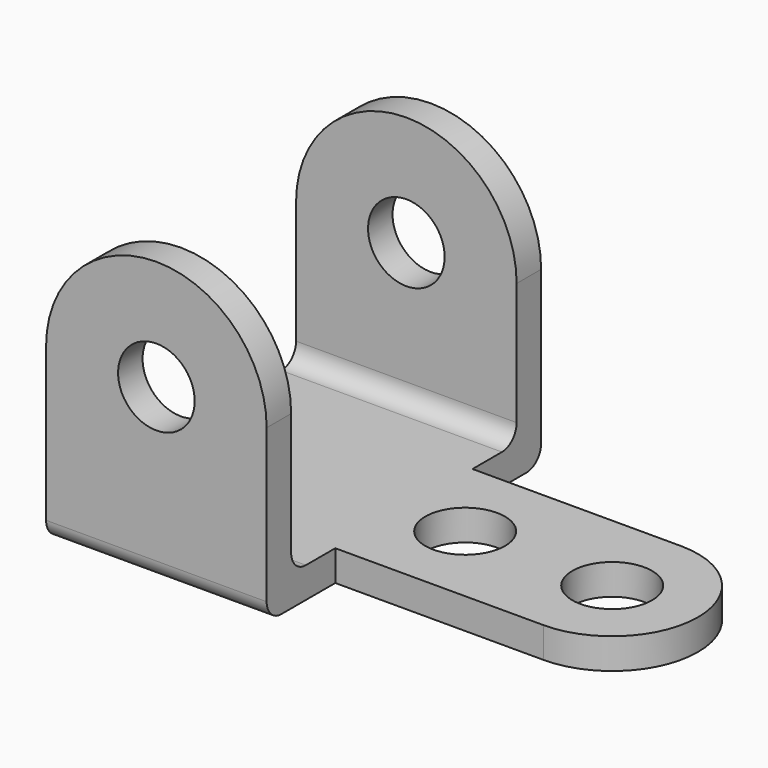
from build123d import *

# Parameters (mm, degrees)
F0_R     = 9.92251
F1_DEPTH = 7.9375
F2_W     = 57.15
F2_H     = 36.5125
F3_DEPTH = 7.9375
F5_R     = 10.3251
F6_DEPTH = 7.9375
F7_R     = 4.7625


with BuildPart() as f1:
    # F0 (on Front) → F1 (new body)
    with BuildSketch(Plane.XZ):
        with BuildLine():
            Line((0, 44.45), (0, 0))
            Line((0, 0), (57.15, 0))
            Line((57.15, 0), (57.15, 44.45))
            ThreePointArc((57.15, 44.45), (28.575, 73.025), (0, 44.45))
        make_face()
        with Locations((28.575, 44.45)):
            Circle(F0_R, mode=Mode.SUBTRACT)
    extrude(amount=F1_DEPTH)

    # F2 (on Top) → F3 (join)
    with BuildSketch(Plane.XY):
        with Locations((28.575, 18.25625)):
            Rectangle(F2_W, F2_H)
    extrude(amount=F3_DEPTH)

    # F4: F1 across face


with BuildPart() as f1_1:
    add(f1.part)
    add(f1.part.mirror(Plane(origin=(28.575, 36.5125, 3.96875), x_dir=(-1, 0, 0), z_dir=(0, 1, 0))))

    # F5 (on Top) → F6 (join)
    with BuildSketch(Plane.XY):
        with BuildLine():
            Line((57.15, 58.7375), (57.15, 14.2875))
            Line((57.15, 14.2875), (111.125, 14.2875))
            ThreePointArc((111.125, 14.2875), (133.35, 36.5125), (111.125, 58.7375))
            Line((111.125, 58.7375), (57.15, 58.7375))
        make_face()
        with Locations((73.025, 36.5125)):
            Circle(F5_R, mode=Mode.SUBTRACT)
        with Locations((111.125, 36.5125)):
            Circle(F5_R, mode=Mode.SUBTRACT)
    extrude(amount=F6_DEPTH)

    # F7
    f7_edges = [f1_1.edges().sort_by_distance(p)[0] for p in [
        (28.575, 73.025, 7.9375),
        (28.575, 0, 7.9375),
        (28.575, -7.9375, 0),
        (28.575, 80.9625, 0),
    ]]
    fillet(f7_edges, radius=F7_R)


solid = f1_1.part
